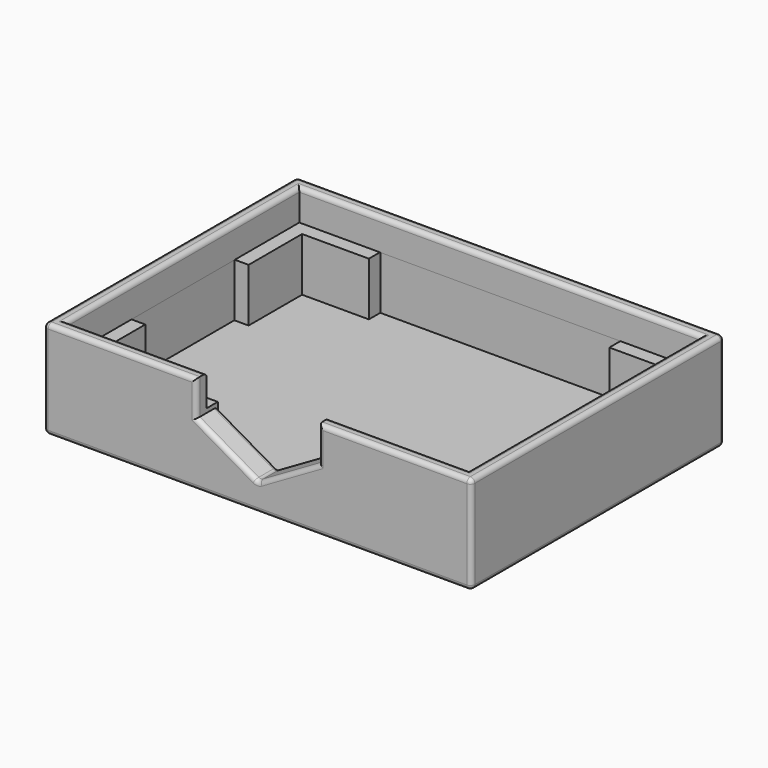
from build123d import *

# Parameters (mm, degrees)
F0_W      = 84
F0_H      = 59
F1_DEPTH  = 3
F0_W_2    = 90.2
F0_H_2    = 65.2
F2_DEPTH  = 15
F0_W_3    = 96
F0_H_3    = 71
F3_DEPTH  = 22
F5_DEPTH  = 6.5
F6_W      = 29
F6_H      = 12
F7_DEPTH  = 3.2
F8_W      = 29
F8_H      = 12
F9_DEPTH  = 3.2
F10_W     = 8.9470923394
F10_H     = 12
F11_DEPTH = 3.2
F12_W     = 54
F12_H     = 12
F13_DEPTH = 3.2
F14_R     = 1


with BuildPart() as f1:
    # F0 (on Top) → F1 (new body)
    with BuildSketch(Plane.XY):
        Rectangle(F0_W, F0_H)
    extrude(amount=F1_DEPTH)

    # F0 (on Top) → F2 (join)
    with BuildSketch(Plane.XY):
        Rectangle(F0_W_2, F0_H_2)
        Rectangle(F0_W, F0_H, mode=Mode.SUBTRACT)
    extrude(amount=F2_DEPTH)

    # F0 (on Top) → F3 (join)
    with BuildSketch(Plane.XY):
        Rectangle(F0_W_3, F0_H_3)
        Rectangle(F0_W_2, F0_H_2, mode=Mode.SUBTRACT)
    extrude(amount=F3_DEPTH)

    # F4 (on face) → F5 (cut)
    with BuildSketch(Plane.XZ.offset(35.5)):
        Polygon((13.7292444706, 14.0734170091), (13.7292444706, 22), (-13.7292444706, 22), (-13.7292444706, 14.0734170091), (0, 6.1468340183), align=None)
    extrude(amount=-F5_DEPTH, mode=Mode.SUBTRACT)

    # F6 (on face) → F7 (cut)
    with BuildSketch(Plane.YZ.offset(-42)):
        with Locations((0, 9)):
            Rectangle(F6_W, F6_H)
    extrude(amount=-F7_DEPTH, mode=Mode.SUBTRACT)

    # F8 (on face) → F9 (cut)
    with BuildSketch(Plane(origin=(42, 0, 0), x_dir=(0, -1, 0), z_dir=(-1, 0, 0))):
        with Locations((0, 9)):
            Rectangle(F8_W, F8_H)
    extrude(amount=-F9_DEPTH, mode=Mode.SUBTRACT)

    # F10 (on face) → F11 (cut)
    with BuildSketch(Plane(origin=(0, -29.5, 0), x_dir=(-1, 0, 0), z_dir=(0, 1, 0))):
        with Locations((-22.5264538303, 9)):
            Rectangle(F10_W, F10_H)
        with Locations((22.5264538303, 9)):
            Rectangle(F10_W, F10_H)
    extrude(amount=-F11_DEPTH, mode=Mode.SUBTRACT)

    # F12 (on face) → F13 (cut)
    with BuildSketch(Plane.XZ.offset(-29.5)):
        with Locations((0, 9)):
            Rectangle(F12_W, F12_H)
    extrude(amount=-F13_DEPTH, mode=Mode.SUBTRACT)

    # F14
    f14_edges = [f1.edges().sort_by_distance(p)[0] for p in [
        (-30.864622, -35.5, 22),
        (-48, 0, 22),
        (-48, -35.5, 11),
        (48, -35.5, 11),
        (48, 0, 0),
        (0, -35.5, 0),
        (30.864622, -35.5, 22),
        (6.864622, -35.5, 10.110126),
        (-6.864622, -35.5, 10.110126),
        (-13.729244, -35.5, 18.036709),
        (13.729244, -35.5, 18.036709),
        (48, 0, 22),
        (48, 35.5, 11),
        (0, 35.5, 22),
        (0, 35.5, 0),
        (-48, 35.5, 11),
        (-48, 0, 0),
        (0, 32.6, 22),
        (-45.1, 0, 22),
        (45.1, 0, 22),
        (29.414622, -32.6, 22),
        (-29.414622, -32.6, 22),
        (6.864622, -29.5, 10.110126),
        (-6.864622, -29.5, 10.110126),
        (0, -32.5, 6.146834),
    ]]
    fillet(f14_edges, radius=F14_R)


solid = f1.part
